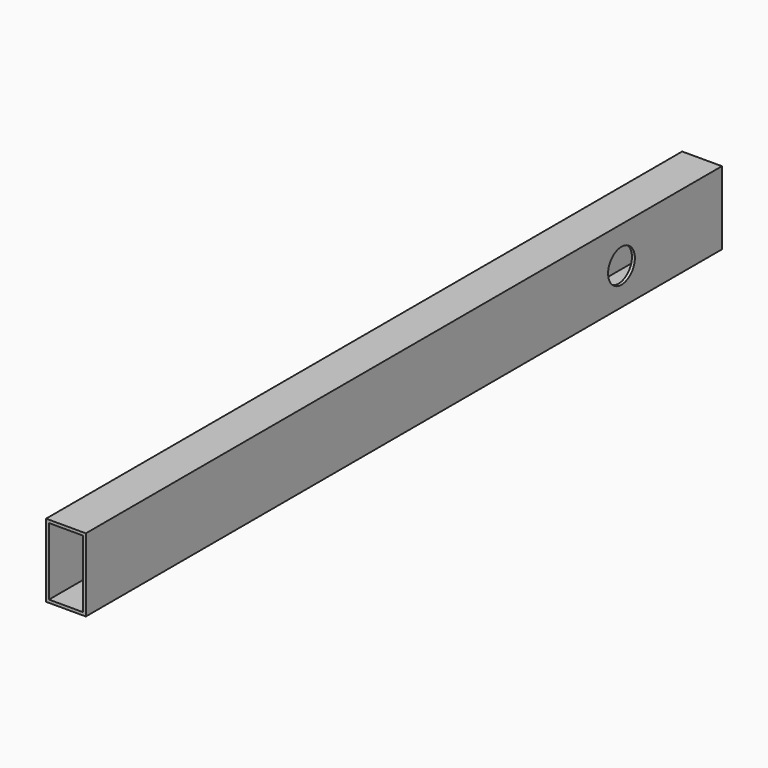
from build123d import *

# Parameters (mm, degrees)
F0_W     = 19
F0_H     = 35
F0_W_2   = 16.2
F0_H_2   = 32.2
F1_DEPTH = 379.987259
F2_R     = 8
F3_DEPTH = 15


with BuildPart() as f1:
    # F0 (on Front) → F1 (new body)
    with BuildSketch(Plane.XZ):
        with Locations((9.5, -17.5)):
            Rectangle(F0_W, F0_H)
        with Locations((9.5, -17.5)):
            Rectangle(F0_W_2, F0_H_2, mode=Mode.SUBTRACT)
    extrude(amount=F1_DEPTH)

    # F2 (on face) → F3 (cut)
    with BuildSketch(Plane.YZ.offset(19)):
        with Locations((-60, -17.5)):
            Circle(F2_R)
    extrude(amount=-F3_DEPTH, mode=Mode.SUBTRACT)


solid = f1.part
